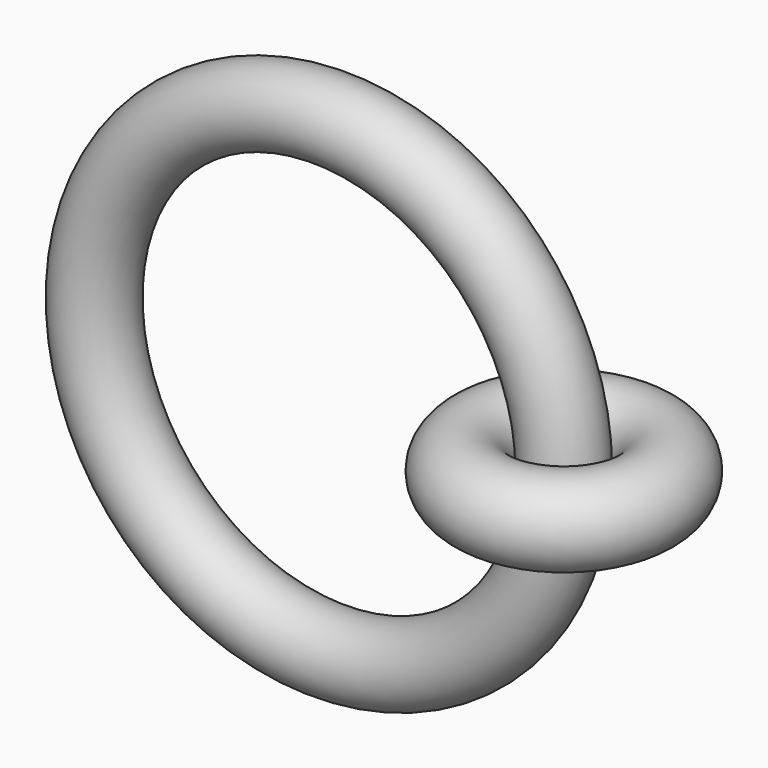
from build123d import *

# Parameters (mm, degrees)
F0_R = 12.7
F3_R = 11.589886


with BuildPart() as f2:
    # F0 (on Front) → F2 (revolve)
    with BuildSketch(Plane.XZ):
        with Locations((25.157439, 0)):
            Circle(F0_R)
    revolve(axis=Axis((0, 0, 3.612274), (0, 0, -1)))


with BuildPart() as f4:
    # F3 (on Top) → F4 (revolve)
    with BuildSketch(Plane.XY):
        Circle(F3_R)
    revolve(axis=Axis((-71.905591, -15.473356, 0), (0, -1, 0)))


solid = Compound([f2.part, f4.part])
